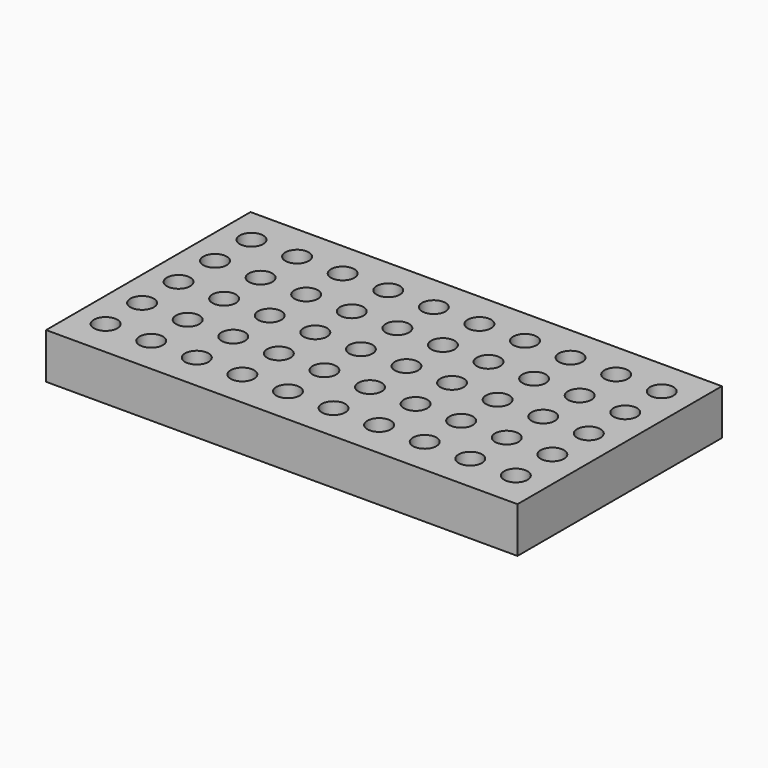
from build123d import *

# Parameters (mm, degrees)
F0_W     = 262.684255
F0_H     = 142.396442
F0_R     = 6.523076
F1_DEPTH = 25.4


with BuildPart() as f1:
    # F0 (on Top) → F1 (new body)
    with BuildSketch(Plane.XY):
        with Locations((-3.385142, 11.603553)):
            Rectangle(F0_W, F0_H)
        with Locations((-118.067987, -38.941629)):
            Circle(F0_R, mode=Mode.SUBTRACT)
        with Locations((-92.667987, -38.941629)):
            Circle(F0_R, mode=Mode.SUBTRACT)
        with Locations((-67.267987, -38.941629)):
            Circle(F0_R, mode=Mode.SUBTRACT)
        with Locations((-41.867987, -38.941629)):
            Circle(F0_R, mode=Mode.SUBTRACT)
        with Locations((-16.467987, -38.941629)):
            Circle(F0_R, mode=Mode.SUBTRACT)
        with Locations((-118.067987, -13.541629)):
            Circle(F0_R, mode=Mode.SUBTRACT)
        with Locations((-92.667987, -13.541629)):
            Circle(F0_R, mode=Mode.SUBTRACT)
        with Locations((-67.267987, -13.541629)):
            Circle(F0_R, mode=Mode.SUBTRACT)
        with Locations((-41.867987, -13.541629)):
            Circle(F0_R, mode=Mode.SUBTRACT)
        with Locations((-16.467987, -13.541629)):
            Circle(F0_R, mode=Mode.SUBTRACT)
        with Locations((8.932013, -38.941629)):
            Circle(F0_R, mode=Mode.SUBTRACT)
        with Locations((34.332013, -38.941629)):
            Circle(F0_R, mode=Mode.SUBTRACT)
        with Locations((59.732013, -38.941629)):
            Circle(F0_R, mode=Mode.SUBTRACT)
        with Locations((85.132013, -38.941629)):
            Circle(F0_R, mode=Mode.SUBTRACT)
        with Locations((110.532013, -38.941629)):
            Circle(F0_R, mode=Mode.SUBTRACT)
        with Locations((8.932013, -13.541629)):
            Circle(F0_R, mode=Mode.SUBTRACT)
        with Locations((34.332013, -13.541629)):
            Circle(F0_R, mode=Mode.SUBTRACT)
        with Locations((59.732013, -13.541629)):
            Circle(F0_R, mode=Mode.SUBTRACT)
        with Locations((85.132013, -13.541629)):
            Circle(F0_R, mode=Mode.SUBTRACT)
        with Locations((110.532013, -13.541629)):
            Circle(F0_R, mode=Mode.SUBTRACT)
        with Locations((-118.067987, 11.858371)):
            Circle(F0_R, mode=Mode.SUBTRACT)
        with Locations((-92.667987, 11.858371)):
            Circle(F0_R, mode=Mode.SUBTRACT)
        with Locations((-118.067987, 37.258371)):
            Circle(F0_R, mode=Mode.SUBTRACT)
        with Locations((-92.667987, 37.258371)):
            Circle(F0_R, mode=Mode.SUBTRACT)
        with Locations((-67.267987, 11.858371)):
            Circle(F0_R, mode=Mode.SUBTRACT)
        with Locations((-41.867987, 11.858371)):
            Circle(F0_R, mode=Mode.SUBTRACT)
        with Locations((-16.467987, 11.858371)):
            Circle(F0_R, mode=Mode.SUBTRACT)
        with Locations((-67.267987, 37.258371)):
            Circle(F0_R, mode=Mode.SUBTRACT)
        with Locations((-41.867987, 37.258371)):
            Circle(F0_R, mode=Mode.SUBTRACT)
        with Locations((-16.467987, 37.258371)):
            Circle(F0_R, mode=Mode.SUBTRACT)
        with Locations((-118.067987, 62.658371)):
            Circle(F0_R, mode=Mode.SUBTRACT)
        with Locations((-92.667987, 62.658371)):
            Circle(F0_R, mode=Mode.SUBTRACT)
        with Locations((-67.267987, 62.658371)):
            Circle(F0_R, mode=Mode.SUBTRACT)
        with Locations((-41.867987, 62.658371)):
            Circle(F0_R, mode=Mode.SUBTRACT)
        with Locations((-16.467987, 62.658371)):
            Circle(F0_R, mode=Mode.SUBTRACT)
        with Locations((8.932013, 11.858371)):
            Circle(F0_R, mode=Mode.SUBTRACT)
        with Locations((34.332013, 11.858371)):
            Circle(F0_R, mode=Mode.SUBTRACT)
        with Locations((59.732013, 11.858371)):
            Circle(F0_R, mode=Mode.SUBTRACT)
        with Locations((8.932013, 37.258371)):
            Circle(F0_R, mode=Mode.SUBTRACT)
        with Locations((34.332013, 37.258371)):
            Circle(F0_R, mode=Mode.SUBTRACT)
        with Locations((59.732013, 37.258371)):
            Circle(F0_R, mode=Mode.SUBTRACT)
        with Locations((85.132013, 11.858371)):
            Circle(F0_R, mode=Mode.SUBTRACT)
        with Locations((110.532013, 11.858371)):
            Circle(F0_R, mode=Mode.SUBTRACT)
        with Locations((85.132013, 37.258371)):
            Circle(F0_R, mode=Mode.SUBTRACT)
        with Locations((110.532013, 37.258371)):
            Circle(F0_R, mode=Mode.SUBTRACT)
        with Locations((8.932013, 62.658371)):
            Circle(F0_R, mode=Mode.SUBTRACT)
        with Locations((34.332013, 62.658371)):
            Circle(F0_R, mode=Mode.SUBTRACT)
        with Locations((59.732013, 62.658371)):
            Circle(F0_R, mode=Mode.SUBTRACT)
        with Locations((85.132013, 62.658371)):
            Circle(F0_R, mode=Mode.SUBTRACT)
        with Locations((110.532013, 62.658371)):
            Circle(F0_R, mode=Mode.SUBTRACT)
    extrude(amount=F1_DEPTH)


solid = f1.part
